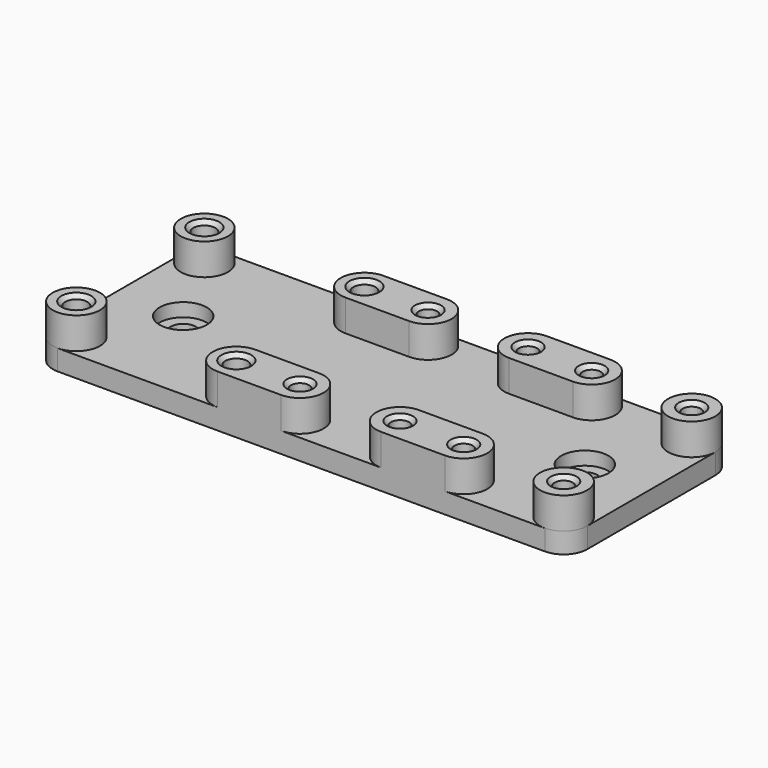
from build123d import *

# Parameters (mm, degrees)
SKETCH008_R         = 0.5
PAD004_DEPTH        = 2.6
SKETCH009_R         = 3
SKETCH009_R_2       = 0.5
PAD005_DEPTH        = 4
HOLE004_D           = 2.8
HOLE004_CSINK_D     = 3.8
HOLE004_CSINK_ANGLE = 90
HOLE005_D           = 2.3
HOLE005_CSINK_D     = 3.3
HOLE005_CSINK_ANGLE = 90
HOLE006_D           = 3.2
HOLE006_CBORE_D     = 6
HOLE006_CBORE_DEPTH = 1.7


with BuildPart() as part:
    # Sketch008 → Pad004 (new body)
    with BuildSketch(Plane.XY):
        with BuildLine():
            ThreePointArc((-30.94, 13.16), (-33.06132, 12.28132), (-33.94, 10.16))
            Line((-33.94, -10.16), (-33.94, 10.16))
            ThreePointArc((-33.94, -10.16), (-33.06132, -12.28132), (-30.94, -13.16))
            Line((30.94, -13.16), (-30.94, -13.16))
            ThreePointArc((30.94, -13.16), (33.06132, -12.28132), (33.94, -10.16))
            Line((33.94, 10.16), (33.94, -10.16))
            ThreePointArc((33.94, 10.16), (33.06132, 12.28132), (30.94, 13.16))
            Line((-30.94, 13.16), (30.94, 13.16))
        make_face()
        with Locations((-30.94, 10.16)):
            Circle(SKETCH008_R, mode=Mode.SUBTRACT)
        with Locations((-10.62, 10.16)):
            Circle(SKETCH008_R, mode=Mode.SUBTRACT)
        with Locations((-2.54, 10.16)):
            Circle(SKETCH008_R, mode=Mode.SUBTRACT)
        with Locations((10.16, 10.16)):
            Circle(SKETCH008_R, mode=Mode.SUBTRACT)
        with Locations((18.24, 10.16)):
            Circle(SKETCH008_R, mode=Mode.SUBTRACT)
        with Locations((30.94, 10.16)):
            Circle(SKETCH008_R, mode=Mode.SUBTRACT)
        with Locations((-30.94, -10.16)):
            Circle(SKETCH008_R, mode=Mode.SUBTRACT)
        with Locations((-10.62, -10.16)):
            Circle(SKETCH008_R, mode=Mode.SUBTRACT)
        with Locations((-2.54, -10.16)):
            Circle(SKETCH008_R, mode=Mode.SUBTRACT)
        with Locations((10.16, -10.16)):
            Circle(SKETCH008_R, mode=Mode.SUBTRACT)
        with Locations((18.24, -10.16)):
            Circle(SKETCH008_R, mode=Mode.SUBTRACT)
        with Locations((30.94, -10.16)):
            Circle(SKETCH008_R, mode=Mode.SUBTRACT)
    extrude(amount=PAD004_DEPTH)

    # Sketch009 (on Face22 of Pad004) → Pad005 (join)
    with BuildSketch(Plane.XY.offset(2.6)):
        with Locations((-30.94, 10.16)):
            Circle(SKETCH009_R)
        with Locations((-30.94, 10.16)):
            Circle(SKETCH009_R_2, mode=Mode.SUBTRACT)
        with Locations((30.94, 10.16)):
            Circle(SKETCH009_R)
        with Locations((30.94, 10.16)):
            Circle(SKETCH009_R_2, mode=Mode.SUBTRACT)
        with BuildLine():
            ThreePointArc((-10.62, 13.16), (-13.62, 10.16), (-10.62, 7.16))
            Line((-10.62, 7.16), (-2.54, 7.16))
            ThreePointArc((-2.54, 7.16), (0.46, 10.16), (-2.54, 13.16))
            Line((-2.54, 13.16), (-10.62, 13.16))
        make_face()
        with Locations((-10.62, 10.16)):
            Circle(SKETCH009_R_2, mode=Mode.SUBTRACT)
        with Locations((-2.54, 10.16)):
            Circle(SKETCH009_R_2, mode=Mode.SUBTRACT)
        with BuildLine():
            ThreePointArc((10.16, 13.16), (7.16, 10.16), (10.16, 7.16))
            Line((10.16, 7.16), (18.24, 7.16))
            ThreePointArc((18.24, 7.16), (21.24, 10.16), (18.24, 13.16))
            Line((18.24, 13.16), (10.16, 13.16))
        make_face()
        with Locations((10.16, 10.16)):
            Circle(SKETCH009_R_2, mode=Mode.SUBTRACT)
        with Locations((18.24, 10.16)):
            Circle(SKETCH009_R_2, mode=Mode.SUBTRACT)
    pad005 = extrude(amount=PAD005_DEPTH)

    # Hole004 (through all)
    with Locations(Plane.XY.offset(6.6)):
        with Locations((-30.94, 10.16), (-10.62, 10.16)):
            hole004 = CounterSinkHole(HOLE004_D / 2, HOLE004_CSINK_D / 2, counter_sink_angle=HOLE004_CSINK_ANGLE)

    # Hole005 (through all)
    with Locations(Plane.XY.offset(6.6)):
        with Locations((-2.54, 10.16), (10.16, 10.16), (18.24, 10.16), (30.94, 10.16)):
            hole005 = CounterSinkHole(HOLE005_D / 2, HOLE005_CSINK_D / 2, counter_sink_angle=HOLE005_CSINK_ANGLE)

    # Mirrored004: Pad005, Hole004, Hole005 across Sketch009 H_Axis
    add(pad005.mirror(Plane(origin=(0, 0, 2.6), x_dir=(0, 0, 1), z_dir=(0, 1, 0))))
    add(hole004.mirror(Plane(origin=(0, 0, 2.6), x_dir=(0, 0, 1), z_dir=(0, 1, 0))), mode=Mode.SUBTRACT)
    add(hole005.mirror(Plane(origin=(0, 0, 2.6), x_dir=(0, 0, 1), z_dir=(0, 1, 0))), mode=Mode.SUBTRACT)

    # Hole006 (through all)
    with Locations(Plane.XY.offset(2.6)):
        with Locations((-25.5, 0), (25.5, 0)):
            CounterBoreHole(HOLE006_D / 2, HOLE006_CBORE_D / 2, HOLE006_CBORE_DEPTH)


solid = part.part
